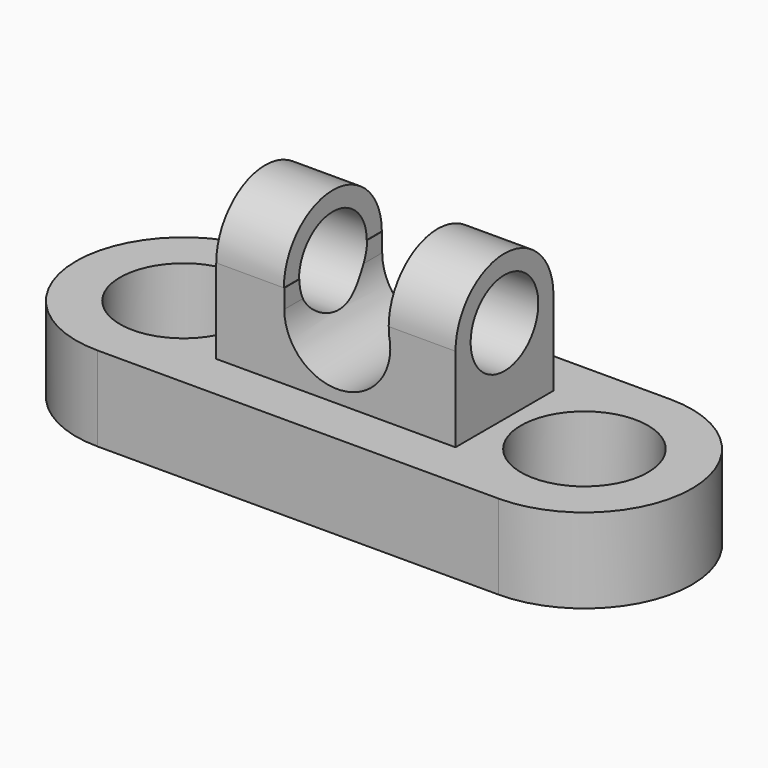
from build123d import *

# Parameters (mm, degrees)
F0_R      = 19.073587
F1_DEPTH  = 25.4
F2_W      = 71.868636
F2_H      = 36.776526
F3_DEPTH  = 25.4
F5_DEPTH  = 43.942
F7_DEPTH  = 20.32
F9_DEPTH  = 20.066
F10_R     = 12.709656
F11_DEPTH = 88.646


with BuildPart() as f1:
    # F0 (on Top) → F1 (new body)
    with BuildSketch(Plane.XY):
        with BuildLine():
            Line((59.656579, 34.109525), (-60.779527, 34.109525))
            ThreePointArc((-60.779527, 34.109525), (-93.064263, 1.824789), (-60.779527, -30.459948))
            Line((-60.779527, -30.459948), (59.656579, -30.459948))
            ThreePointArc((59.656579, -30.459948), (91.941316, 1.824789), (59.656579, 34.109525))
        make_face()
        with Locations((-60.779527, 1.824789)):
            Circle(F0_R, mode=Mode.SUBTRACT)
        with Locations((59.656579, 1.824789)):
            Circle(F0_R, mode=Mode.SUBTRACT)
    extrude(amount=F1_DEPTH)

    # F2 (on face) → F3 (join)
    with BuildSketch(Plane.XY.offset(25.4)):
        with Locations((-0.421103, 1.965159)):
            Rectangle(F2_W, F2_H)
    extrude(amount=F3_DEPTH)

    # F4 (on face) → F5 (cut)
    with BuildSketch(Plane.XZ.offset(16.423104)):
        with BuildLine():
            Line((15.518841, 50.8), (-15.924016, 50.8))
            Line((-15.924016, 50.8), (-15.924016, 45.146231))
            ThreePointArc((-15.924016, 45.146231), (1.796108, 29.323832), (15.518841, 48.715523))
            Line((15.518841, 48.715523), (15.518841, 50.8))
        make_face()
    extrude(amount=-F5_DEPTH, mode=Mode.SUBTRACT)

    # F6 (on face) → F7 (join)
    with BuildSketch(Plane(origin=(-36.355421, 0, 0), x_dir=(0, -1, 0), z_dir=(-1, 0, 0))):
        with BuildLine():
            Line((-20.353422, 50.8), (16.423104, 50.8))
            ThreePointArc((16.423104, 50.8), (-1.965159, 69.188263), (-20.353422, 50.8))
        make_face()
    extrude(amount=-F7_DEPTH)

    # F8 (on face) → F9 (join)
    with BuildSketch(Plane.YZ.offset(35.513215)):
        with BuildLine():
            ThreePointArc((20.353422, 50.8), (1.965159, 69.188263), (-16.423104, 50.8))
            Line((-16.423104, 50.8), (20.353422, 50.8))
        make_face()
    extrude(amount=-F9_DEPTH)

    # F10 (on face) → F11 (cut)
    with BuildSketch(Plane(origin=(-36.355421, 0, 0), x_dir=(0, -1, 0), z_dir=(-1, 0, 0))):
        with Locations((-1.965159, 50.8)):
            Circle(F10_R)
    extrude(amount=-F11_DEPTH, mode=Mode.SUBTRACT)


solid = f1.part
